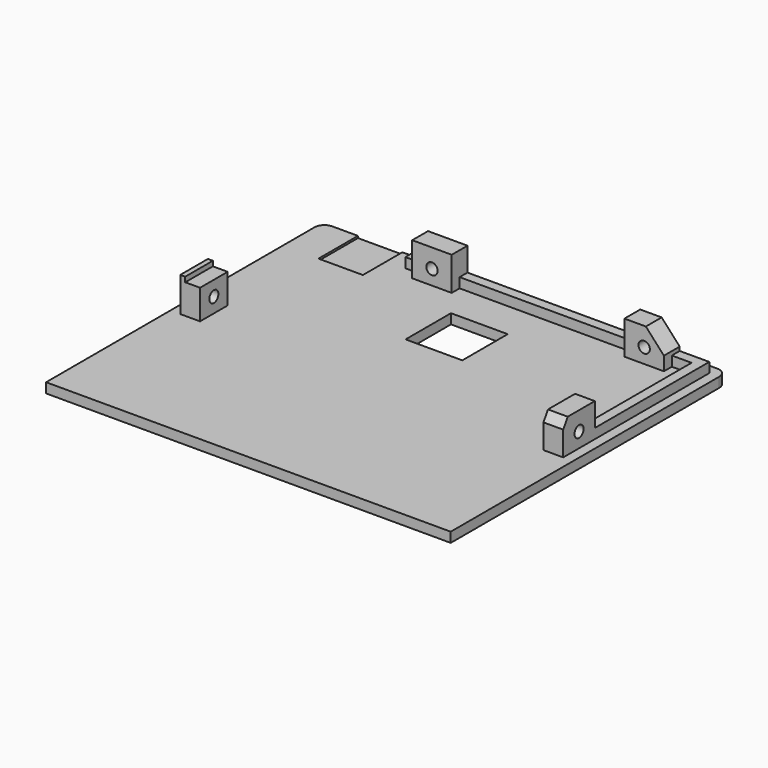
from build123d import *

# Parameters (mm, degrees)
SKETCH_W        = 82
SKETCH_H        = 70
PAD_DEPTH       = 2
SKETCH001_W     = 2
SKETCH001_H     = 7
PAD001_DEPTH    = 2
SKETCH011_W     = 8
SKETCH011_H     = 6.8
PAD002_DEPTH    = 4
SKETCH012_W     = 7
SKETCH012_H     = 6
PAD003_DEPTH    = 4
SKETCH010_W     = 8
SKETCH010_H     = 6.8
PAD004_DEPTH    = 4
SKETCH013_R     = 1.15
POCKET_DEPTH    = 80.001
SKETCH016_R     = 1.15
POCKET001_DEPTH = 8.501
SKETCH018_W     = 11.5
SKETCH018_H     = 11.5
POCKET002_DEPTH = 5
POCKET003_DEPTH = 5
POCKET004_DEPTH = 5
SKETCH021_W     = 1
SKETCH021_H     = 7
PAD005_DEPTH    = 1
SKETCH022_W     = 9
SKETCH022_H     = 10
POCKET005_DEPTH = 0.4
FILLET_R        = 2


with BuildPart() as part:
    # Sketch → Pad (new body)
    with BuildSketch(Plane.XY):
        Rectangle(SKETCH_W, SKETCH_H)
    extrude(amount=PAD_DEPTH)

    # Sketch001 (on Face6 of Pad) → Pad001 (join)
    with BuildSketch(Plane.XY.offset(2)):
        with Locations((-38, 0)):
            Rectangle(SKETCH001_W, SKETCH001_H)
        Polygon((-21, 33), (39, 33), (39, -4), (37, -4), (37, 31), (-21, 31), align=None)
    extrude(amount=PAD001_DEPTH)

    # Sketch011 (on Face15 of Pad001) → Pad002 (join)
    with BuildSketch(Plane.YZ.offset(39)):
        with Locations((0, 5.4)):
            Rectangle(SKETCH011_W, SKETCH011_H)
    extrude(amount=-PAD002_DEPTH)

    # Sketch012 (on Face9 of Pad002) → Pad003 (join)
    with BuildSketch(Plane(origin=(-39, 0, 0), x_dir=(0, -1, 0), z_dir=(-1, 0, 0))):
        with Locations((0, 5)):
            Rectangle(SKETCH012_W, SKETCH012_H)
    extrude(amount=-PAD003_DEPTH)

    # Sketch010 (on Face16 of Pad001) → Pad004 (join)
    with BuildSketch(Plane(origin=(0, 33, 0), x_dir=(-1, 0, 0), z_dir=(0, 1, 0))):
        with Locations((-29, 5.4)):
            Rectangle(SKETCH010_W, SKETCH010_H)
        with Locations((14, 5.4)):
            Rectangle(SKETCH010_W, SKETCH010_H)
    extrude(amount=-PAD004_DEPTH)

    # Sketch013 (on Face44 of Pad004) → Pocket (cut, through all)
    with BuildSketch(Plane.YZ.offset(39)):
        with Locations((0, 5)):
            Circle(SKETCH013_R)
    extrude(amount=-POCKET_DEPTH, mode=Mode.SUBTRACT)

    # Sketch016 → Pocket001 (cut, through all)
    with BuildSketch(Plane.XZ.offset(-26.5)):
        with Locations((-14, 5)):
            Circle(SKETCH016_R)
        with Locations((29, 5)):
            Circle(SKETCH016_R)
    extrude(amount=-POCKET001_DEPTH, mode=Mode.SUBTRACT)

    # Sketch018 (on Face5 of Pocket001) → Pocket002 (cut)
    with BuildSketch(Plane.XY.offset(2)):
        with Locations((0, 17.75)):
            Rectangle(SKETCH018_W, SKETCH018_H)
    extrude(amount=-POCKET002_DEPTH, mode=Mode.SUBTRACT)

    # Sketch019 (on Face31 of Pocket002) → Pocket003 (cut)
    with BuildSketch(Plane.XZ.offset(-29)):
        Polygon((29.125944, 9.042901), (33.258869, 4.499726), (33.258869, 9.042901), align=None)
    extrude(amount=-POCKET003_DEPTH, mode=Mode.SUBTRACT)

    # Sketch020 (on Face36 of Pocket003) → Pocket004 (cut)
    with BuildSketch(Plane(origin=(35, 0, 0), x_dir=(0, -1, 0), z_dir=(-1, 0, 0))):
        Polygon((2.77547, 8.938441), (6.386171, 3.079567), (6.386171, 8.938441), align=None)
    extrude(amount=-POCKET004_DEPTH, mode=Mode.SUBTRACT)

    # Sketch021 (on Face40 of Pocket004) → Pad005 (join)
    with BuildSketch(Plane.XY.offset(8)):
        with Locations((-38.5, 0)):
            Rectangle(SKETCH021_W, SKETCH021_H)
    extrude(amount=PAD005_DEPTH)

    # Sketch022 (on Face5 of Pocket003) → Pocket005 (cut)
    with BuildSketch(Plane.XY.offset(2)):
        with Locations((-29.3, 30)):
            Rectangle(SKETCH022_W, SKETCH022_H)
    extrude(amount=-POCKET005_DEPTH, mode=Mode.SUBTRACT)

    # Fillet
    fillet_edges = [part.edges().sort_by_distance(p)[0] for p in [
        (41, 35, 1),
        (-41, 35, 1),
    ]]
    fillet(fillet_edges, radius=FILLET_R)


solid = part.part
